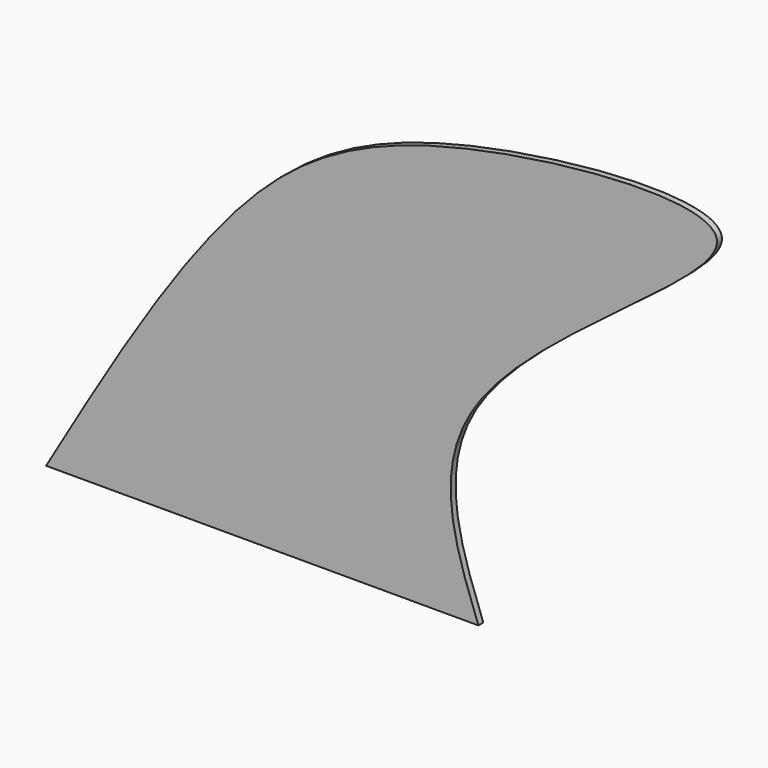
from build123d import *

# Parameters (mm, degrees)
F1_DEPTH = 1.930420287


with BuildPart() as f1:
    # F0 (on Front) → F1 (new body)
    with BuildSketch(Plane.XZ):
        with BuildLine():
            add(Edge.make_bspline(
                [(70.0029432774, -61.6595745087), (62.4611919446, -41.5457554346), (45.2214843182, 4.4324399626), (197.5992821479, 84.2024066341), (47.4330849165, 72.344671026), (-10.3117754596, 32.910613568), (-46.3573567456, -28.6010252454), (-65.7294988632, -61.6595745087)],
                knots=[0, 0, 0, 0, 0.1695149905, 0.3874944259, 0.5846959952, 0.7768011387, 1, 1, 1, 1], degree=3))
            Line((-65.7294988632, -61.6595745087), (70.0029432774, -61.6595745087))
        make_face()
    extrude(amount=-F1_DEPTH)


solid = f1.part
